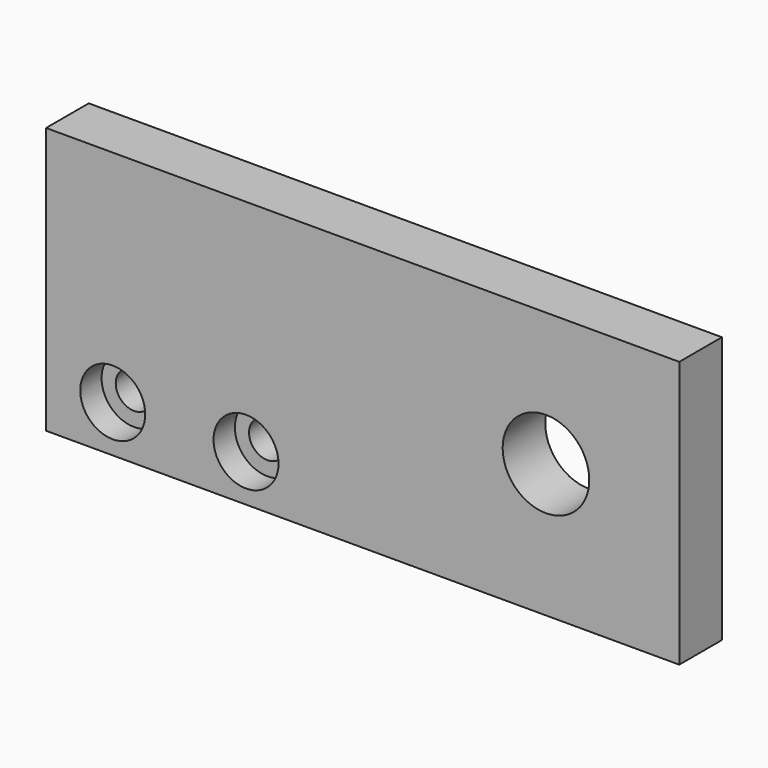
from build123d import *

# Parameters (mm, degrees)
F0_W           = 95
F0_H           = 40
F1_DEPTH       = 8
F2_D           = 5.5
F2_CBORE_D     = 9.75
F2_CBORE_DEPTH = 4
F3_D           = 13


with BuildPart() as f1:
    # F0 (on Front) → F1 (new body)
    with BuildSketch(Plane.XZ):
        Rectangle(F0_W, F0_H)
    extrude(amount=-F1_DEPTH)

    # F2 (through all)
    with Locations(Plane.XZ):
        with Locations((-17.5, -13), (-37.5, -13)):
            CounterBoreHole(F2_D / 2, F2_CBORE_D / 2, F2_CBORE_DEPTH)

    # F3 (through all)
    with Locations(Plane.XZ):
        with Locations((27.5, 0)):
            Hole(F3_D / 2)


solid = f1.part
